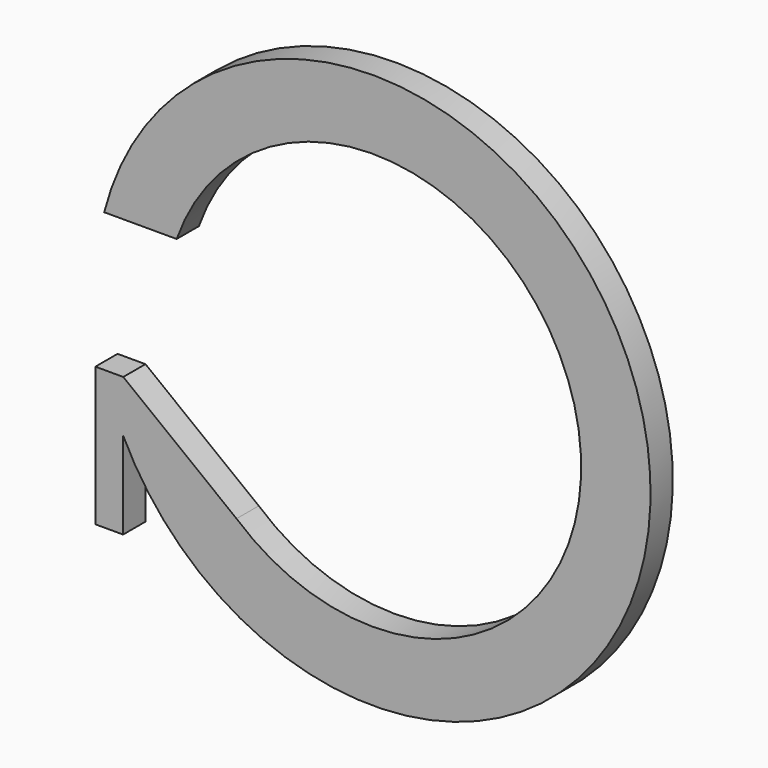
from build123d import *

# Parameters (mm, degrees)
F1_DEPTH = 100
F4_W     = 100
F4_H     = 500
F5_DEPTH = 100
F7_DEPTH = 100


with BuildPart() as f1:
    # F0 (on Front) → F1 (new body)
    with BuildSketch(Plane.XZ):
        with BuildLine():
            ThreePointArc((-707.1067811865, 250), (126.8264840443, 739.1989197401), (750, 0))
            ThreePointArc((750, 0), (126.8264840443, -739.1989197401), (-707.1067811865, -250))
            Line((-707.1067811865, -250), (-968.2458365519, -250))
            ThreePointArc((-968.2458365519, -250), (126.0042924827, -992.0296962672), (1000, 0))
            ThreePointArc((1000, 0), (126.0042924827, 992.0296962672), (-968.2458365519, 250))
            Line((-968.2458365519, 250), (-707.1067811865, 250))
        make_face()
    extrude(amount=F1_DEPTH)

    # F4 (on offset) → F5 (join)
    with BuildSketch(Plane.YZ.offset(-1000)):
        with Locations((-50, -500)):
            Rectangle(F4_W, F4_H)
    extrude(amount=F5_DEPTH)

    # F6 (on face) → F7 (cut)
    with BuildSketch(Plane.XZ.offset(100)):
        with BuildLine():
            Line((-707.1067811865, -250), (-899.4680664961, -250))
            Line((-899.4680664961, -250), (-491.3664999003, -566.6206515613))
            ThreePointArc((-491.3664999003, -566.6206515613), (-619.7957007099, -422.3189427216), (-707.1067811865, -250))
        make_face()
    extrude(amount=-F7_DEPTH, mode=Mode.SUBTRACT)


solid = f1.part
